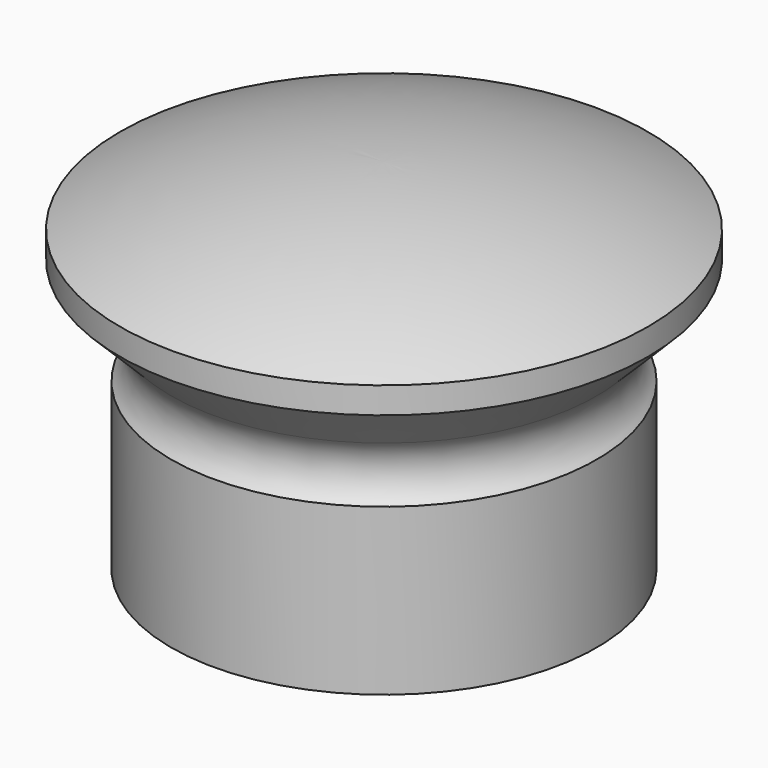
from build123d import *


with BuildPart() as f1:
    # F0 (on Front) → F1 (revolve)
    with BuildSketch(Plane.XZ):
        with BuildLine():
            Line((-8.1026, 9.672707), (0, 9.672707))
            Line((0, 9.672707), (0, 27.15264))
            ThreePointArc((0, 27.15264), (-10.249929, 26.01392), (-20, 22.65329))
            Line((-20, 22.65329), (-20, 20.65329))
            Line((-20, 20.65329), (-16.129, 16.78229))
            ThreePointArc((-16.129, 16.78229), (-15.25032, 14.66097), (-16.129, 12.539649))
            Line((-16.129, 12.539649), (-16.129, 0))
            Line((-16.129, 0), (-8.1026, 0))
            Line((-8.1026, 0), (-8.1026, 9.672707))
        make_face()
    revolve(axis=Axis((0, 0, 16.521212), (0, 0, 1)))


solid = f1.part
